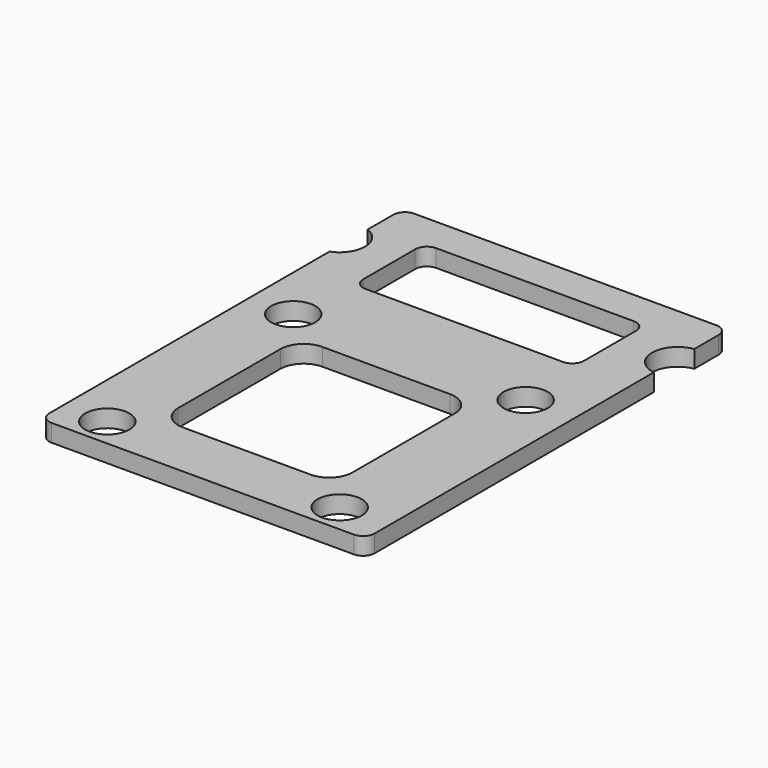
from build123d import *

# Parameters (mm, degrees)
F0_R     = 1.9
F1_DEPTH = 1.5


with BuildPart() as f1:
    # F0 (on Top) → F1 (new body)
    with BuildSketch(Plane.XY):
        with BuildLine():
            ThreePointArc((-13.788667, 1), (-13.495774, 0.292893), (-12.788667, 0))
            Line((-12.788667, 0), (13.211333, 0))
            ThreePointArc((13.211333, 0), (13.91844, 0.292893), (14.211333, 1))
            Line((14.211333, 1), (14.211333, 31.020942))
            ThreePointArc((14.211333, 31.020942), (12.328867, 33.197906), (14.211333, 35.37487))
            Line((14.211333, 35.37487), (14.211333, 38))
            ThreePointArc((14.211333, 38), (13.91844, 38.707107), (13.211333, 39))
            Line((13.211333, 39), (-12.788667, 39))
            ThreePointArc((-12.788667, 39), (-13.495774, 38.707107), (-13.788667, 38))
            Line((-13.788667, 38), (-13.788667, 35.243071))
            ThreePointArc((-13.788667, 35.243071), (-12.371133, 33.186923), (-13.788667, 31.130774))
            Line((-13.788667, 31.130774), (-13.788667, 1))
        make_face()
        with Locations((-10, 2.5)):
            Circle(F0_R, mode=Mode.SUBTRACT)
        with BuildLine():
            ThreePointArc((7.5, 7), (6.914214, 5.585786), (5.5, 5))
            Line((5.5, 5), (-5.5, 5))
            ThreePointArc((-5.5, 5), (-6.914214, 5.585786), (-7.5, 7))
            Line((-7.5, 7), (-7.5, 18))
            ThreePointArc((-7.5, 18), (-6.914214, 19.414214), (-5.5, 20))
            Line((-5.5, 20), (5.5, 20))
            ThreePointArc((5.5, 20), (6.914214, 19.414214), (7.5, 18))
            Line((7.5, 18), (7.5, 7))
        make_face(mode=Mode.SUBTRACT)
        with Locations((10, 2.5)):
            Circle(F0_R, mode=Mode.SUBTRACT)
        with Locations((-10, 22.5)):
            Circle(F0_R, mode=Mode.SUBTRACT)
        with BuildLine():
            ThreePointArc((9.5, 29.4), (9.207107, 28.692893), (8.5, 28.4))
            Line((8.5, 28.4), (-8.5, 28.4))
            ThreePointArc((-8.5, 28.4), (-9.207107, 28.692893), (-9.5, 29.4))
            Line((-9.5, 29.4), (-9.5, 35))
            ThreePointArc((-9.5, 35), (-9.207107, 35.707107), (-8.5, 36))
            Line((-8.5, 36), (8.5, 36))
            ThreePointArc((8.5, 36), (9.207107, 35.707107), (9.5, 35))
            Line((9.5, 35), (9.5, 29.4))
        make_face(mode=Mode.SUBTRACT)
        with Locations((10, 22.5)):
            Circle(F0_R, mode=Mode.SUBTRACT)
    extrude(amount=F1_DEPTH)


solid = f1.part
